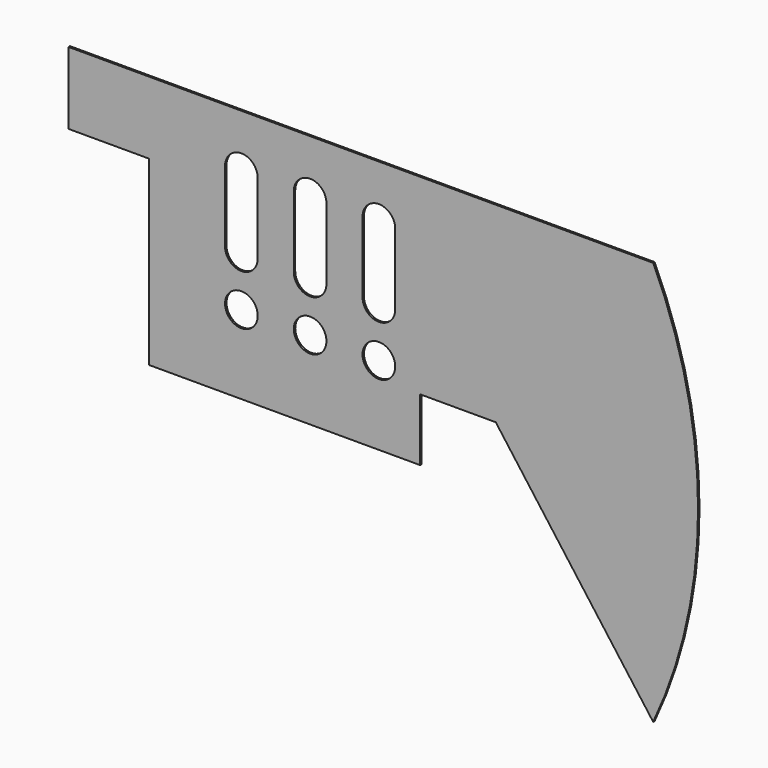
from build123d import *

# Parameters (mm, degrees)
F1_DEPTH = 0.254
F2_R     = 2.2987
F2_R_2   = 2.301875
F3_DEPTH = 25.4


with BuildPart() as f1:
    # F0 (on Front) → F1 (new body)
    with BuildSketch(Plane.XZ):
        with BuildLine():
            Line((24.319585, 35.731313), (-57.992861, 35.731313))
            Line((-57.992861, 35.731313), (-57.992861, 25.571313))
            Line((-57.992861, 25.571313), (-46.651531, 25.571313))
            Line((-46.651531, 25.571313), (-46.651531, 0))
            Line((-46.651531, 0), (-8.49027, 0))
            Line((-8.49027, 0), (-8.49027, 8.778076))
            Line((-8.49027, 8.778076), (2.158544, 8.778076))
            Line((2.158544, 8.778076), (24.319585, -21.153724))
            ThreePointArc((24.319585, -21.153724), (30.637446, 7.288795), (24.319585, 35.731313))
        make_face()
    extrude(amount=F1_DEPTH)

    # F2 (on face) → F3 (cut)
    with BuildSketch(Plane(origin=(0, 0, 0), x_dir=(-1, 0, 0), z_dir=(0, 1, 0))):
        with BuildLine():
            ThreePointArc((16.597997, 28.162057), (14.296122, 30.463932), (11.994247, 28.162057))
            Line((11.994247, 28.162057), (11.994247, 18.160808))
            ThreePointArc((11.994247, 18.160808), (14.296122, 15.858933), (16.597997, 18.160808))
            Line((16.597997, 18.160808), (16.597997, 28.162057))
        make_face()
        with BuildLine():
            ThreePointArc((26.275397, 28.162057), (23.976697, 30.460757), (21.677997, 28.162057))
            Line((21.677997, 28.162057), (21.677997, 18.160808))
            ThreePointArc((21.677997, 18.160808), (23.976697, 15.862108), (26.275397, 18.160808))
            Line((26.275397, 18.160808), (26.275397, 28.162057))
        make_face()
        with BuildLine():
            ThreePointArc((35.952797, 28.162057), (33.654097, 30.460757), (31.355397, 28.162057))
            Line((31.355397, 28.162057), (31.355397, 18.160808))
            ThreePointArc((31.355397, 18.160808), (33.654097, 15.862108), (35.952797, 18.160808))
            Line((35.952797, 18.160808), (35.952797, 28.162057))
        make_face()
        with Locations((23.976697, 11.076776)):
            Circle(F2_R)
        with Locations((14.296122, 11.076776)):
            Circle(F2_R_2)
        with Locations((33.654097, 11.076776)):
            Circle(F2_R)
    extrude(amount=-F3_DEPTH, mode=Mode.SUBTRACT)


solid = f1.part
